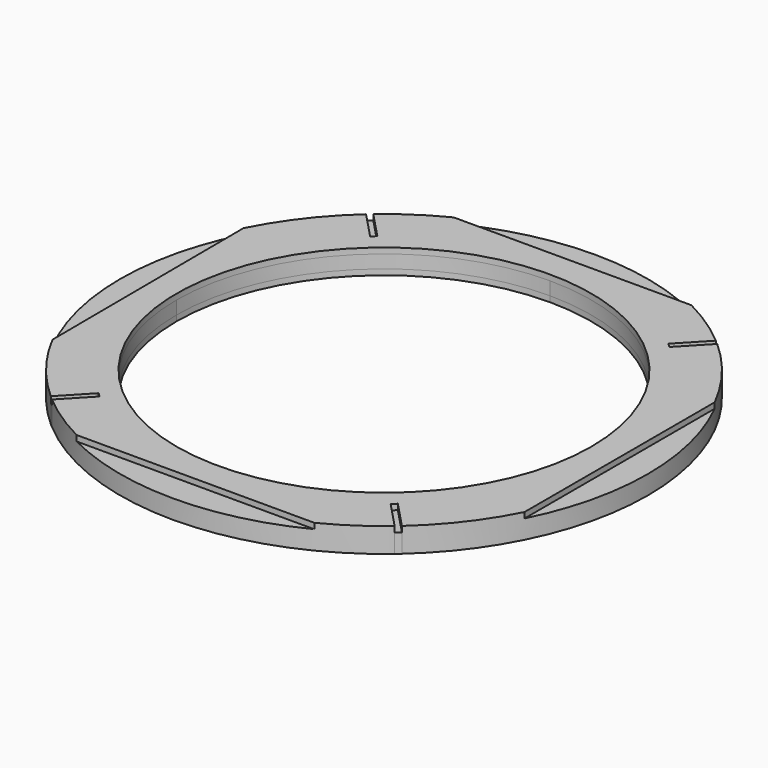
from build123d import *

# Parameters (mm, degrees)
F1_DEPTH  = 3
F1_FACE_R = 110
F2_DEPTH  = 10


with BuildPart() as f1:
    # F0 (on Top) → F1 (new body)
    with BuildSketch(Plane.XY):
        with BuildLine():
            Line((125, 0), (125, 63.0476010646))
            ThreePointArc((125, 63.0476010646), (111.0212813649, 85.289360908), (93.1335914618, 104.5281499952))
            Line((93.1335914618, 104.5281499952), (79.3692223366, 90.01807961))
            Line((79.3692223366, 90.01807961), (77.1927117788, 92.0827349788))
            Line((77.1927117788, 92.0827349788), (90.8704397477, 106.5014703188))
            ThreePointArc((90.8704397477, 106.5014703188), (77.512835853, 116.5837050279), (63.0476010646, 125))
            Line((63.0476010646, 125), (0, 125))
            Line((0, 125), (0, 110))
            ThreePointArc((0, 110), (77.7817459305, 77.7817459305), (110, 0))
            Line((110, 0), (125, 0))
        make_face()
        with BuildLine():
            ThreePointArc((-110, 0), (-77.7817459305, 77.7817459305), (0, 110))
            Line((0, 110), (0, 125))
            Line((0, 125), (-63.0476010646, 125))
            ThreePointArc((-63.0476010646, 125), (-77.512835853, 116.5837050279), (-90.8704397477, 106.5014703188))
            Line((-90.8704397477, 106.5014703188), (-77.1927117788, 92.0827349788))
            Line((-77.1927117788, 92.0827349788), (-79.3692223366, 90.01807961))
            Line((-79.3692223366, 90.01807961), (-93.1335914618, 104.5281499952))
            ThreePointArc((-93.1335914618, 104.5281499952), (-111.0212813649, 85.289360908), (-125, 63.0476010646))
            Line((-125, 63.0476010646), (-124.6484353295, 0))
            Line((-124.6484353295, 0), (-110, 0))
        make_face()
        with BuildLine():
            Line((0, -125), (0, -110))
            ThreePointArc((0, -110), (-77.7817459305, -77.7817459305), (-110, 0))
            Line((-110, 0), (-124.6484353295, 0))
            Line((-124.6484353295, 0), (-124.2891193215, -64.4376816644))
            ThreePointArc((-124.2891193215, -64.4376816644), (-110.543974073, -85.9070998006), (-93.1335914618, -104.5281499952))
            Line((-93.1335914618, -104.5281499952), (-79.3692223366, -90.01807961))
            Line((-79.3692223366, -90.01807961), (-77.1927117788, -92.0827349788))
            Line((-77.1927117788, -92.0827349788), (-90.8704397477, -106.5014703188))
            ThreePointArc((-90.8704397477, -106.5014703188), (-77.512835853, -116.5837050279), (-63.0476010646, -125))
            Line((-63.0476010646, -125), (0, -125))
        make_face()
        with BuildLine():
            ThreePointArc((93.1335914618, -104.5281499952), (111.0212813649, -85.289360908), (125, -63.0476010646))
            Line((125, -63.0476010646), (125, 0))
            Line((125, 0), (110, 0))
            ThreePointArc((110, 0), (77.7817459305, -77.7817459305), (0, -110))
            Line((0, -110), (0, -125))
            Line((0, -125), (63.0476010646, -125))
            ThreePointArc((63.0476010646, -125), (77.512835853, -116.5837050279), (90.8704397477, -106.5014703188))
            Line((90.8704397477, -106.5014703188), (77.1927117788, -92.0827349788))
            Line((77.1927117788, -92.0827349788), (79.3692223366, -90.01807961))
            Line((79.3692223366, -90.01807961), (93.1335914618, -104.5281499952))
        make_face()
    extrude(amount=F1_DEPTH)

    # F0 (on Top) + F1_face (on face) → F2 (join)
    with BuildSketch(Plane.XY):
        with BuildLine():
            Line((125, 0), (140, 0))
            ThreePointArc((140, 0), (136.1983847188, 32.403703492), (125, 63.0476010646))
            Line((125, 63.0476010646), (125, 0))
        make_face()
        with BuildLine():
            ThreePointArc((125, -63.0476010646), (136.1983847188, -32.403703492), (140, 0))
            Line((140, 0), (125, 0))
            Line((125, 0), (125, -63.0476010646))
        make_face()
        with BuildLine():
            Line((125, 0), (125, 63.0476010646))
            ThreePointArc((125, 63.0476010646), (111.0212813649, 85.289360908), (93.1335914618, 104.5281499952))
            Line((93.1335914618, 104.5281499952), (79.3692223366, 90.01807961))
            Line((79.3692223366, 90.01807961), (77.1927117788, 92.0827349788))
            Line((77.1927117788, 92.0827349788), (90.8704397477, 106.5014703188))
            ThreePointArc((90.8704397477, 106.5014703188), (77.512835853, 116.5837050279), (63.0476010646, 125))
            Line((63.0476010646, 125), (0, 125))
            Line((0, 125), (0, 110))
            ThreePointArc((0, 110), (77.7817459305, 77.7817459305), (110, 0))
            Line((110, 0), (125, 0))
        make_face()
        with BuildLine():
            ThreePointArc((93.1335914618, -104.5281499952), (111.0212813649, -85.289360908), (125, -63.0476010646))
            Line((125, -63.0476010646), (125, 0))
            Line((125, 0), (110, 0))
            ThreePointArc((110, 0), (77.7817459305, -77.7817459305), (0, -110))
            Line((0, -110), (0, -125))
            Line((0, -125), (63.0476010646, -125))
            ThreePointArc((63.0476010646, -125), (77.512835853, -116.5837050279), (90.8704397477, -106.5014703188))
            Line((90.8704397477, -106.5014703188), (77.1927117788, -92.0827349788))
            Line((77.1927117788, -92.0827349788), (79.3692223366, -90.01807961))
            Line((79.3692223366, -90.01807961), (93.1335914618, -104.5281499952))
        make_face()
        with BuildLine():
            Line((90.8704397477, 106.5014703188), (93.1335914618, 104.5281499952))
            ThreePointArc((93.1335914618, 104.5281499952), (92.0073060882, 105.5208776801), (90.8704397477, 106.5014703188))
        make_face()
        Polygon((79.3692223366, 90.01807961), (93.1335914618, 104.5281499952), (90.8704397477, 106.5014703188), (77.1927117788, 92.0827349788), align=None)
        with BuildLine():
            ThreePointArc((90.8704397477, -106.5014703188), (92.0073060882, -105.5208776801), (93.1335914618, -104.5281499952))
            Line((93.1335914618, -104.5281499952), (90.8704397477, -106.5014703188))
        make_face()
        Polygon((90.8704397477, -106.5014703188), (93.1335914618, -104.5281499952), (79.3692223366, -90.01807961), (77.1927117788, -92.0827349788), align=None)
        with BuildLine():
            ThreePointArc((-110, 0), (-77.7817459305, 77.7817459305), (0, 110))
            Line((0, 110), (0, 125))
            Line((0, 125), (-63.0476010646, 125))
            ThreePointArc((-63.0476010646, 125), (-77.512835853, 116.5837050279), (-90.8704397477, 106.5014703188))
            Line((-90.8704397477, 106.5014703188), (-77.1927117788, 92.0827349788))
            Line((-77.1927117788, 92.0827349788), (-79.3692223366, 90.01807961))
            Line((-79.3692223366, 90.01807961), (-93.1335914618, 104.5281499952))
            ThreePointArc((-93.1335914618, 104.5281499952), (-111.0212813649, 85.289360908), (-125, 63.0476010646))
            Line((-125, 63.0476010646), (-124.6484353295, 0))
            Line((-124.6484353295, 0), (-110, 0))
        make_face()
        with BuildLine():
            Line((0, -125), (0, -110))
            ThreePointArc((0, -110), (-77.7817459305, -77.7817459305), (-110, 0))
            Line((-110, 0), (-124.6484353295, 0))
            Line((-124.6484353295, 0), (-124.2891193215, -64.4376816644))
            ThreePointArc((-124.2891193215, -64.4376816644), (-110.543974073, -85.9070998006), (-93.1335914618, -104.5281499952))
            Line((-93.1335914618, -104.5281499952), (-79.3692223366, -90.01807961))
            Line((-79.3692223366, -90.01807961), (-77.1927117788, -92.0827349788))
            Line((-77.1927117788, -92.0827349788), (-90.8704397477, -106.5014703188))
            ThreePointArc((-90.8704397477, -106.5014703188), (-77.512835853, -116.5837050279), (-63.0476010646, -125))
            Line((-63.0476010646, -125), (0, -125))
        make_face()
        with BuildLine():
            Line((0, 125), (63.0476010646, 125))
            ThreePointArc((63.0476010646, 125), (32.403703492, 136.1983847188), (0, 140))
            Line((0, 140), (0, 125))
        make_face()
        with BuildLine():
            ThreePointArc((0, -140), (32.403703492, -136.1983847188), (63.0476010646, -125))
            Line((63.0476010646, -125), (0, -125))
            Line((0, -125), (0, -140))
        make_face()
        with BuildLine():
            Line((-63.0476010646, 125), (0, 125))
            Line((0, 125), (0, 140))
            ThreePointArc((0, 140), (-32.403703492, 136.1983847188), (-63.0476010646, 125))
        make_face()
        with BuildLine():
            Line((0, -140), (0, -125))
            Line((0, -125), (-63.0476010646, -125))
            ThreePointArc((-63.0476010646, -125), (-32.403703492, -136.1983847188), (0, -140))
        make_face()
        with BuildLine():
            Line((-124.2891193215, -64.4376816644), (-124.6484353295, 0))
            Line((-124.6484353295, 0), (-125, 0))
            Line((-125, 0), (-140, 0))
            ThreePointArc((-140, 0), (-136.0155812858, -33.1626544096), (-124.2891193215, -64.4376816644))
        make_face()
        Polygon((-125, 0), (-124.6484353295, 0), (-125, 63.0476010646), align=None)
        with BuildLine():
            Line((-140, 0), (-125, 0))
            Line((-125, 0), (-125, 63.0476010646))
            ThreePointArc((-125, 63.0476010646), (-136.1983847188, 32.403703492), (-140, 0))
        make_face()
        with BuildLine():
            Line((-93.1335914618, 104.5281499952), (-90.8704397477, 106.5014703188))
            ThreePointArc((-90.8704397477, 106.5014703188), (-92.0073060882, 105.5208776801), (-93.1335914618, 104.5281499952))
        make_face()
        Polygon((-77.1927117788, 92.0827349788), (-90.8704397477, 106.5014703188), (-93.1335914618, 104.5281499952), (-79.3692223366, 90.01807961), align=None)
        Polygon((-93.1335914618, -104.5281499952), (-90.8704397477, -106.5014703188), (-77.1927117788, -92.0827349788), (-79.3692223366, -90.01807961), align=None)
        with BuildLine():
            ThreePointArc((-93.1335914618, -104.5281499952), (-92.0073060882, -105.5208776801), (-90.8704397477, -106.5014703188))
            Line((-90.8704397477, -106.5014703188), (-93.1335914618, -104.5281499952))
        make_face()
    with BuildSketch(Plane(origin=(0.3076396833, 0.0529685728, 3), x_dir=(1, 0, 0), z_dir=(0, 0, 1))):
        with BuildLine():
            ThreePointArc((124.6923603167, 62.9946324918), (110.7136416816, 85.2363923352), (92.8259517786, 104.4751814224))
            Line((92.8259517786, 104.4751814224), (79.0615826533, 89.9651110372))
            Line((79.0615826533, 89.9651110372), (76.8850720955, 92.029766406))
            Line((76.8850720955, 92.029766406), (90.5628000645, 106.448501746))
            ThreePointArc((90.5628000645, 106.448501746), (77.2051961697, 116.5307364551), (62.7399613813, 124.9470314272))
            Line((62.7399613813, 124.9470314272), (-63.3552407479, 124.9470314272))
            ThreePointArc((-63.3552407479, 124.9470314272), (-77.8204755362, 116.5307364551), (-91.178079431, 106.448501746))
            Line((-91.178079431, 106.448501746), (-77.5003514621, 92.029766406))
            Line((-77.5003514621, 92.029766406), (-79.6768620198, 89.9651110372))
            Line((-79.6768620198, 89.9651110372), (-93.4412311451, 104.4751814224))
            ThreePointArc((-93.4412311451, 104.4751814224), (-111.3289210482, 85.2363923352), (-125.3076396833, 62.9946324918))
            Line((-125.3076396833, 62.9946324918), (-124.5967590048, -64.4906502372))
            ThreePointArc((-124.5967590048, -64.4906502372), (-110.8516137562, -85.9600683734), (-93.4412311451, -104.581118568))
            Line((-93.4412311451, -104.581118568), (-79.6768620198, -90.0710481828))
            Line((-79.6768620198, -90.0710481828), (-77.5003514621, -92.1357035515))
            Line((-77.5003514621, -92.1357035515), (-91.178079431, -106.5544388915))
            ThreePointArc((-91.178079431, -106.5544388915), (-77.8204755362, -116.6366736007), (-63.3552407479, -125.0529685728))
            Line((-63.3552407479, -125.0529685728), (62.7399613813, -125.0529685728))
            ThreePointArc((62.7399613813, -125.0529685728), (77.2051961697, -116.6366736007), (90.5628000645, -106.5544388915))
            Line((90.5628000645, -106.5544388915), (76.8850720955, -92.1357035515))
            Line((76.8850720955, -92.1357035515), (79.0615826533, -90.0710481828))
            Line((79.0615826533, -90.0710481828), (92.8259517786, -104.581118568))
            ThreePointArc((92.8259517786, -104.581118568), (110.7136416816, -85.3423294808), (124.6923603167, -63.1005696374))
            Line((124.6923603167, -63.1005696374), (124.6923603167, 62.9946324918))
        make_face()
        with Locations((-0.3076396833, -0.0529685728)):
            Circle(F1_FACE_R, mode=Mode.SUBTRACT)
    extrude(amount=F2_DEPTH)


solid = f1.part
